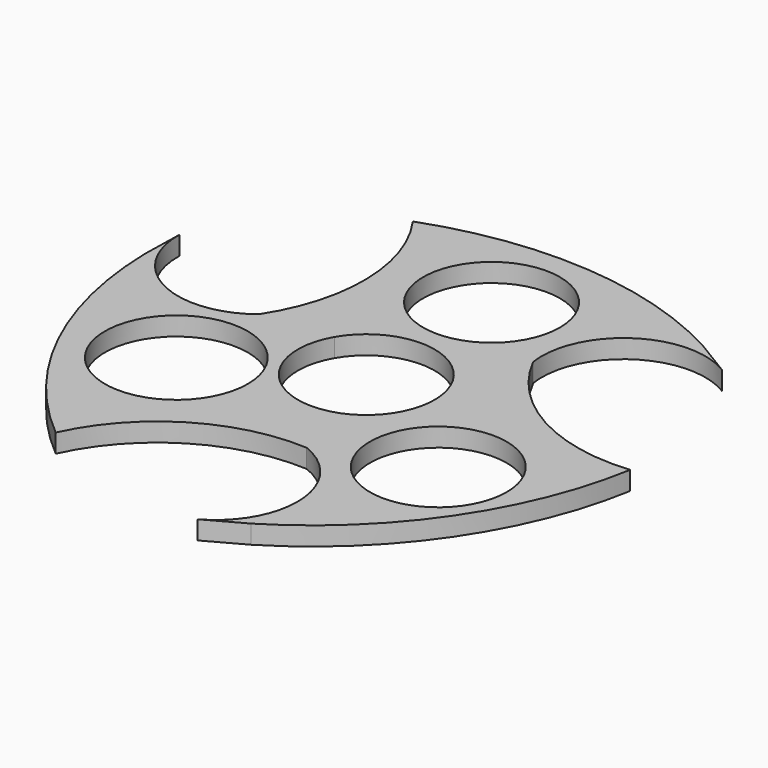
from build123d import *

# Parameters (mm, degrees)
F0_R     = 11.495248
F0_R_2   = 11
F1_DEPTH = 3


with BuildPart() as f1:
    # F0 (on Top) → F1 (new body)
    with BuildSketch(Plane.XY):
        with BuildLine():
            Line((34.073839, 28.946415), (28.237904, 32.489196))
            ThreePointArc((28.237904, 32.489196), (3.787903, 39.731164), (-21.466842, 36.203202))
            ThreePointArc((-21.466842, 36.203202), (-16.224646, 20.401304), (-20.807121, 4.395633))
            ThreePointArc((-20.807121, 4.395633), (-34.826813, 2.968602), (-42.10525, 15.035603))
            Line((-42.10525, 15.035603), (-42.255421, 8.210144))
            ThreePointArc((-42.255421, 8.210144), (-36.302149, -16.585162), (-20.619472, -36.692431))
            ThreePointArc((-20.619472, -36.692431), (-9.555725, -24.251607), (6.596831, -20.217312))
            ThreePointArc((6.596831, -20.217312), (14.842522, -31.645205), (8.031411, -43.982018))
            Line((8.031411, -43.982018), (14.017518, -40.69934))
            ThreePointArc((14.017518, -40.69934), (32.514246, -23.146002), (42.086313, 0.48923))
            ThreePointArc((42.086313, 0.48923), (25.78037, 3.850303), (14.21029, 15.821679))
            ThreePointArc((14.21029, 15.821679), (19.984291, 28.676604), (34.073839, 28.946415))
        make_face()
        with Locations((-21.527926, -11.295904)):
            Circle(F0_R, mode=Mode.SUBTRACT)
        with Locations((22.755247, -13.960625)):
            Circle(F0_R_2, mode=Mode.SUBTRACT)
        with BuildLine():
            ThreePointArc((-9.526279, 5.5), (0, 11), (9.526279, 5.5))
            ThreePointArc((9.526279, 5.5), (9.526279, -5.5), (0, -11))
            ThreePointArc((0, -11), (-9.526279, -5.5), (-9.526279, 5.5))
        make_face(mode=Mode.SUBTRACT)
        with Locations((0, 25.195053)):
            Circle(F0_R_2, mode=Mode.SUBTRACT)
    extrude(amount=F1_DEPTH)


solid = f1.part
